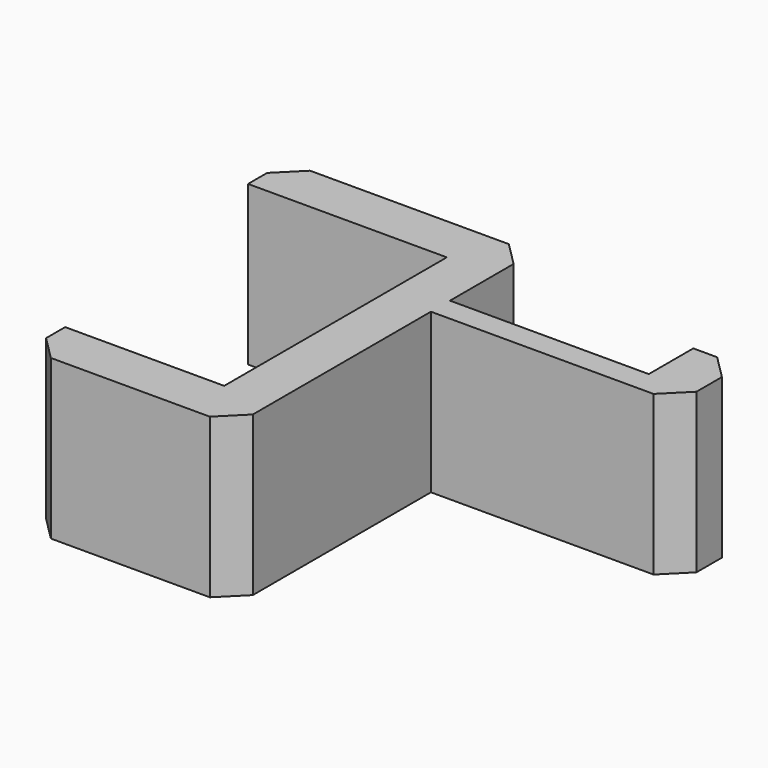
from build123d import *

# Parameters (mm, degrees)
F1_DEPTH = 20
F2_SIZE  = 3
F3_SIZE  = 3


with BuildPart() as f1:
    # F0 (on Top) → F1 (new body)
    with BuildSketch(Plane.XY):
        Polygon((-25, 6), (-25, 0), (0, 0), (0, -35), (-20, -35), (-20, -41), (6, -41), (6, -10), (37, -10), (37, 0), (31, 0), (31, -4), (6, -4), (6, 6), align=None)
    extrude(amount=F1_DEPTH)

    # F2
    f2_edges = [f1.edges().sort_by_distance(p)[0] for p in [
        (37, -10, 10),
        (6, 6, 10),
        (6, -41, 10),
        (-25, 6, 10),
        (-20, -41, 10),
        (37, 0, 10),
    ]]
    chamfer(f2_edges, length=F2_SIZE)

    # F3
    f3_edges = [f1.edges().sort_by_distance(p)[0] for p in [
        (18.5, -4, 20),
        (18.5, -4, 0),
    ]]
    chamfer(f3_edges, length=F3_SIZE)


solid = f1.part
